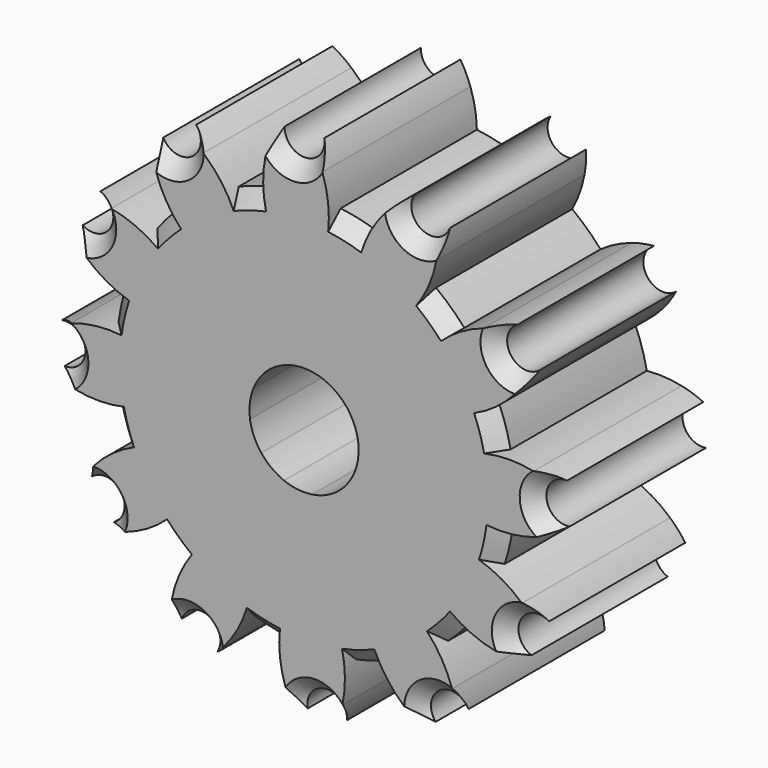
from build123d import *

# Parameters (mm, degrees)
F0_R     = 7.5871947061
F1_DEPTH = 25
F2_COUNT = 12
F3_SIZE  = 2


with BuildPart() as f1:
    # F0 (on Front) → F1 (new body)
    with BuildSketch(Plane.XZ):
        with BuildLine():
            ThreePointArc((1.2480739331, 3.7603779319), (-10.2577431994, -43.3727073657), (33.5596011829, -22.5411954463))
            ThreePointArc((33.5596011829, -22.5411954463), (26.8414517439, -4.7712158704), (10.0475910469, 4.1097721886))
            ThreePointArc((10.0475910469, 4.1097721886), (5.6334159802, 4.2981557995), (1.2480739331, 3.7603779319))
        make_face()
        with Locations((6.4852745272, -22.5167684257)):
            Circle(F0_R, mode=Mode.SUBTRACT)
        with BuildLine():
            ThreePointArc((1.2480739331, 3.7603779319), (5.6334159802, 4.2981557995), (10.0475910469, 4.1097721886))
            ThreePointArc((10.0475910469, 4.1097721886), (9.801183615, 6.5676720659), (9.1687600903, 8.9555642149))
            ThreePointArc((9.1687600903, 8.9555642149), (8.5740899024, 10.3846239635), (7.8235955072, 11.7383604814))
            ThreePointArc((7.8235955072, 11.7383604814), (5.3468633025, 8.5924410547), (2.4806950013, 11.3881682808))
            ThreePointArc((2.4806950013, 11.3881682808), (1.9133192626, 9.9480539907), (1.510266288, 8.4536000111))
            ThreePointArc((1.510266288, 8.4536000111), (1.2008539244, 6.1169508144), (1.2480739331, 3.7603779319))
        make_face()
    extrude(amount=F1_DEPTH)

    # F2: F1 ×12 about axis
    f2_axis = Axis((6.6991011829, 0, -22.5411954463), (0, 1, 0))


with BuildPart() as f1_1:
    add(f1.part)
    for i in range(1, F2_COUNT):
        add(f1.part.rotate(f2_axis, i * 360 / F2_COUNT))

    # F3
    f3_edges = [f1_1.edges().sort_by_distance(p)[0] for p in [
        (-10.038789, -25, 3.745206),
        (5.346863, -25, 8.592441),
        (21.094847, -25, 5.097444),
        (32.985502, -25, -5.803305),
        (37.832738, -25, -21.188958),
        (34.33774, -25, -36.936941),
        (23.436992, -25, -48.827597),
        (8.051339, -25, -53.674832),
        (-7.696645, -25, -50.179835),
        (-19.5873, -25, -39.279086),
        (-24.434535, -25, -23.893433),
        (-20.939538, -25, -8.14545),
        (-13.032739, -25, -4.316461),
        (-1.276807, -25, 3.107807),
        (-19.501541, -25, -16.624033),
        (12.616264, -25, 3.659447),
        (-18.949902, -25, -30.517104),
        (24.923835, -25, -2.809355),
        (32.348104, -25, -14.565287),
        (32.899743, -25, -28.458358),
        (26.430942, -25, -40.765929),
        (14.675009, -25, -48.190198),
        (0.781939, -25, -48.741838),
        (-11.525633, -25, -42.273036),
    ]]
    chamfer(f3_edges, length=F3_SIZE)


solid = f1_1.part
